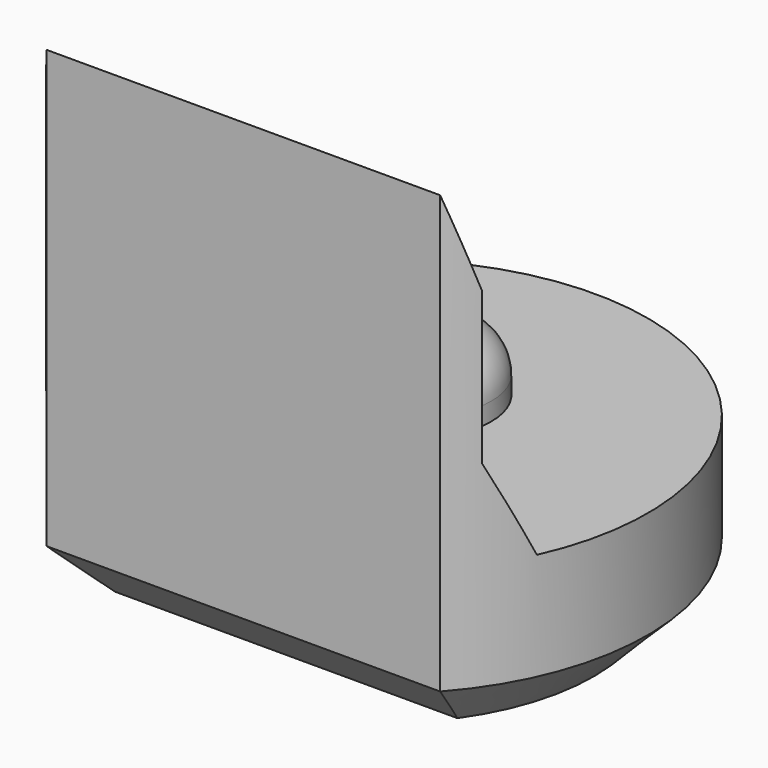
from build123d import *

# Parameters (mm, degrees)
PAD003_DEPTH         = 5.5
POCKET004_DEPTH      = 2.951
POCKET004_DEPTH_BACK = 2.951
SKETCH013_R          = 0.8
PAD006_DEPTH         = 0.7
FILLET_R             = 0.5
CHAMFER004_SIZE      = 0.6


with BuildPart() as part:
    # Sketch004 → Pad003 (new body)
    with BuildSketch(Plane.XY):
        with BuildLine():
            ThreePointArc((2.2, -1.9653244007), (0, 2.95), (-2.2, -1.9653244007))
            Line((-2.2, -1.9653244007), (2.2, -1.9653244007))
        make_face()
    extrude(amount=PAD003_DEPTH)

    # Sketch014 → Pocket004 (cut, two sides)
    with BuildSketch(Plane.YZ) as pocket004_sk:
        Polygon((-1.97, 5.5), (-1.67, 4.5), (-1.67, 2.8), (-1.22, 1.8), (4, 1.8), (4, 5.5), align=None)
    extrude(amount=-POCKET004_DEPTH, mode=Mode.SUBTRACT)
    extrude(pocket004_sk.sketch, amount=POCKET004_DEPTH_BACK, mode=Mode.SUBTRACT)

    # Sketch013 (on Face7 of Pocket004) → Pad006 (join)
    with BuildSketch(Plane.XY.offset(1.8)):
        with Locations((0, 0.5)):
            Circle(SKETCH013_R)
    extrude(amount=PAD006_DEPTH)

    # Fillet
    fillet_edges = [part.edges().sort_by_distance(p)[0] for p in [
        (-0.8, 0.5, 2.5),
    ]]
    fillet(fillet_edges, radius=FILLET_R)

    # Chamfer004
    chamfer004_edges = [part.edges().sort_by_distance(p)[0] for p in [
        (0, 2.95, 0),
        (0, -1.965324, 0),
    ]]
    chamfer(chamfer004_edges, length=CHAMFER004_SIZE)


with BuildPart() as part_1:
    # Body031 placement: moved
    add(part.part.moved(Location((0, 72, 0))))


solid = part_1.part
